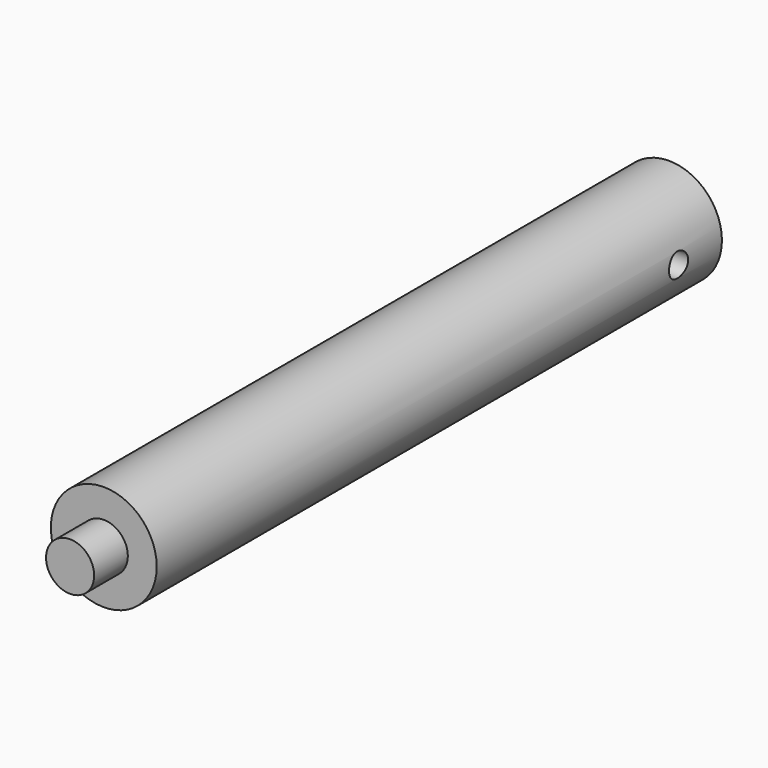
from build123d import *

# Parameters (mm, degrees)
F0_R     = 8.8011
F1_DEPTH = 124.46
F2_R     = 8.8011
F2_R_2   = 4
F3_DEPTH = 7
F4_R     = 2.5
F5_DEPTH = 18
F8_R     = 1.984375
F9_DEPTH = 17.6032


with BuildPart() as f1:
    # F0 (on Front) → F1 (new body)
    with BuildSketch(Plane.XZ):
        Circle(F0_R)
    extrude(amount=F1_DEPTH)

    # F2 (on face) → F3 (cut)
    with BuildSketch(Plane.XZ.offset(124.46)):
        Circle(F2_R)
        Circle(F2_R_2, mode=Mode.SUBTRACT)
    extrude(amount=-F3_DEPTH, mode=Mode.SUBTRACT)

    # F4 (on face) → F5 (cut)
    with BuildSketch(Plane(origin=(0, 0, 0), x_dir=(-1, 0, 0), z_dir=(0, 1, 0))):
        Circle(F4_R)
    extrude(amount=-F5_DEPTH, mode=Mode.SUBTRACT)

    # F8 (on face) → F9 (cut, through all)
    with BuildSketch(Plane(origin=(-8.8011, 0, 0), x_dir=(0, -1, 0), z_dir=(-1, 0, 0))):
        with Locations((9, 0)):
            Circle(F8_R)
    extrude(amount=-F9_DEPTH, mode=Mode.SUBTRACT)


solid = f1.part
